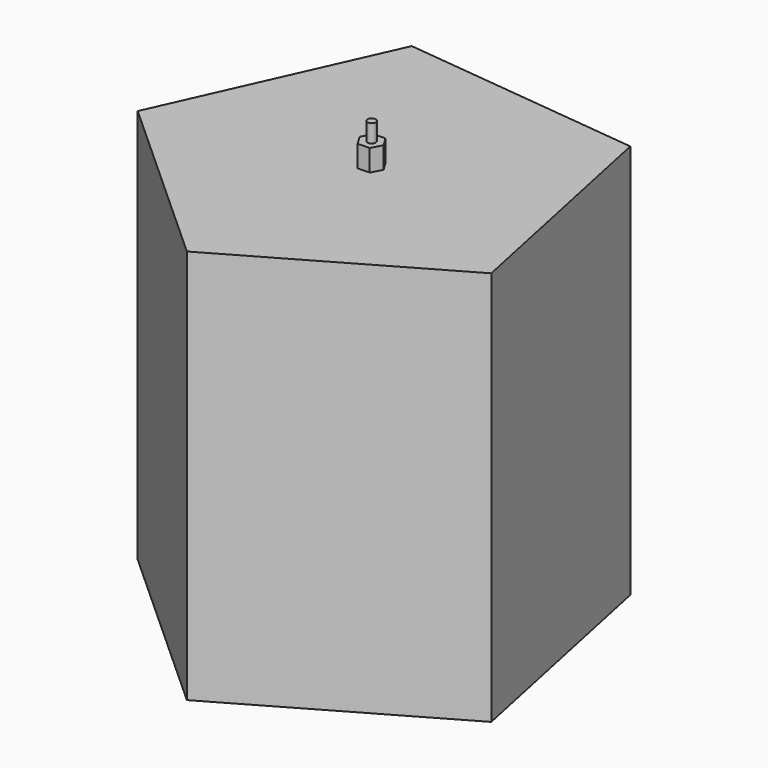
from build123d import *

# Parameters (mm, degrees)
F1_DEPTH = 157.48
F2_R     = 25.233792
F3_DEPTH = 142.748
F5_DEPTH = 8.636
F6_R     = 1.660828
F7_DEPTH = 7.112


with BuildPart() as f1:
    # F0 (on Top) → F1 (new body)
    with BuildSketch(Plane.XY):
        Polygon((-8.753945, -81.124703), (74.44906, -33.394409), (54.765995, 60.485824), (-40.601814, 70.776703), (-79.859295, -16.743415), align=None)
    extrude(amount=F1_DEPTH)

    # F2 (on Top) → F3 (cut)
    with BuildSketch(Plane.XY):
        Circle(F2_R)
    extrude(amount=F3_DEPTH, mode=Mode.SUBTRACT)

    # F4 (on face) → F5 (join)
    with BuildSketch(Plane.XY.offset(157.48)):
        Polygon((2.463029, -4.001475), (4.696893, 0.132308), (2.233864, 4.133783), (-2.463029, 4.001475), (-4.696893, -0.132308), (-2.233864, -4.133783), align=None)
    extrude(amount=F5_DEPTH)

    # F6 (on face) → F7 (join)
    with BuildSketch(Plane.XY.offset(166.116)):
        Circle(F6_R)
    extrude(amount=F7_DEPTH)


solid = f1.part
